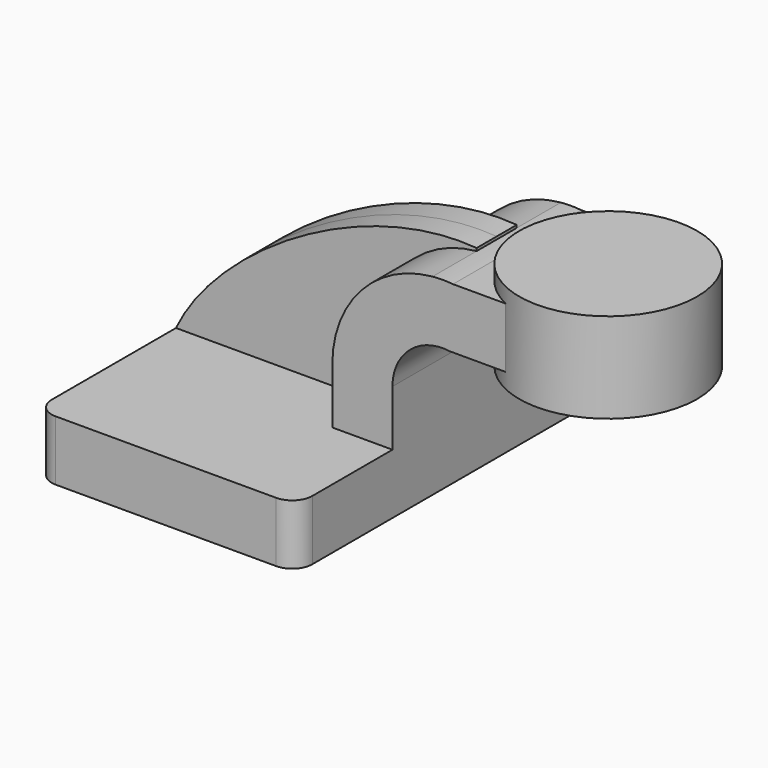
from build123d import *

# Parameters (mm, degrees)
F1_DEPTH = 63.5
F2_DEPTH = 25.4
F3_DEPTH = 7.9375
F4_DEPTH = 25.4
F6_R     = 6.35


with BuildPart() as f1:
    # F0 (on Front) → F1 (new body, symmetric)
    with BuildSketch(Plane.XZ):
        Polygon((-41.275, 9.525), (-41.275, -9.525), (41.275, -9.525), (41.275, 9.525), (22.225, 9.525), align=None)
    extrude(amount=F1_DEPTH, both=True)

    # F0 (on Front) → F2 (join, symmetric)
    with BuildSketch(Plane.XZ):
        with BuildLine():
            Line((22.225, 9.525), (41.275, 9.525))
            Line((41.275, 9.525), (41.275, 27.156549))
            ThreePointArc((41.275, 27.156549), (44.853278, 37.196781), (53.975, 42.710809))
            Line((53.975, 42.710809), (53.975, 61.936932))
            ThreePointArc((53.975, 61.936932), (31.356178, 50.70298), (22.225, 27.156549))
            Line((22.225, 27.156549), (22.225, 9.525))
        make_face()
    extrude(amount=F2_DEPTH, both=True)

    # F0 (on Front) → F3 (join, symmetric)
    with BuildSketch(Plane.XZ):
        with BuildLine():
            add(Edge.make_bspline(
                [(-41.275, 9.525), (-28.28964, 37.114333), (17.647352, 65.702192), (53.975, 62.803717)],
                knots=[0, 0, 0, 0, 107.903289, 107.903289, 107.903289, 107.903289], degree=3))
            Line((-41.275, 9.525), (22.225, 9.525))
            Line((22.225, 9.525), (22.225, 27.156549))
            ThreePointArc((22.225, 27.156549), (31.356178, 50.70298), (53.975, 61.936932))
            Line((53.975, 61.936932), (53.975, 62.803717))
        make_face()
    extrude(amount=F3_DEPTH, both=True)

    # F0 (on Front) → F4 (join, symmetric)
    with BuildSketch(Plane.XZ):
        with BuildLine():
            ThreePointArc((60.450994, 61.9252), (57.21327, 62.081492), (53.975, 61.936932))
            Line((53.975, 61.936932), (53.975, 42.710809))
            ThreePointArc((53.975, 42.710809), (56.666725, 43.024192), (59.372532, 42.8752))
            Line((59.372532, 42.8752), (89.295853, 42.8752))
            Line((89.295853, 42.8752), (89.295853, 61.9252))
            Line((89.295853, 61.9252), (60.450994, 61.9252))
        make_face()
    extrude(amount=F4_DEPTH, both=True)

    # F0 (on Front) → F5 (revolve)
    with BuildSketch(Plane.XZ):
        Polygon((117.475, 66.675), (89.295853, 66.675), (89.295853, 61.9252), (89.295853, 42.8752), (89.295853, 38.1), (117.475, 38.1), align=None)
    revolve(axis=Axis((89.295853, 0, 52.3875), (0, 0, 1)))

    # F6
    f6_edges = [f1.edges().sort_by_distance(p)[0] for p in [
        (41.275, -63.5, 0),
        (-41.275, -63.5, 0),
        (-41.275, 63.5, 0),
        (41.275, 63.5, 0),
    ]]
    fillet(f6_edges, radius=F6_R)


solid = f1.part
